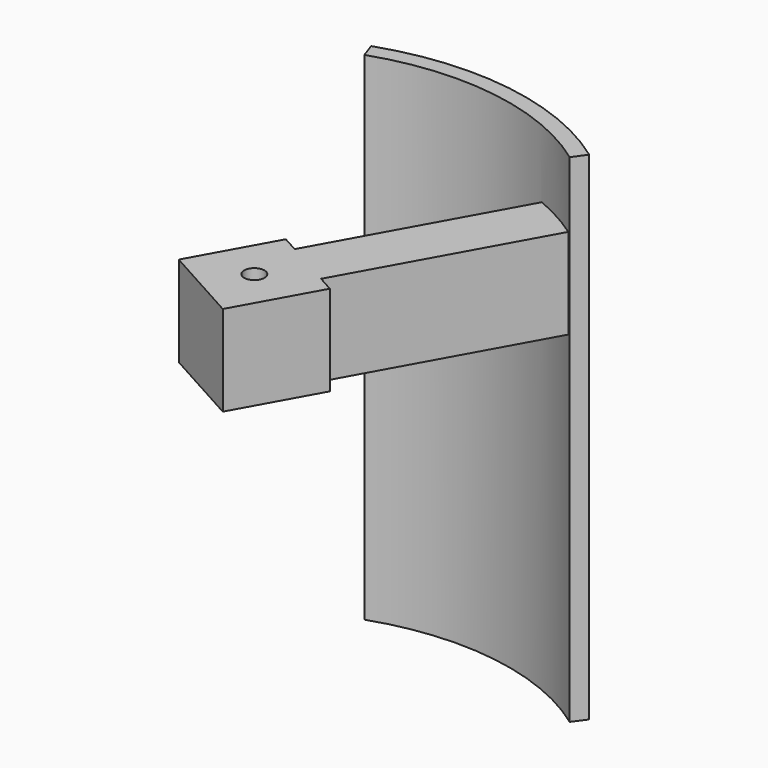
from build123d import *

# Parameters (mm, degrees)
PAD141_DEPTH              = 22
SKETCH221_W               = 4
SKETCH221_H               = 4
PAD138_DEPTH              = 13.5
SKETCH219_R               = 0.45
SKETCH219_W               = 0.8
SKETCH219_H               = 9.5
POCKET026_DEPTH           = 5
BODY033_PLACEMENT_ANGLE   = 90
FUSION003_PLACEMENT_ANGLE = 29


with BuildPart() as segment_wing003:
    # Sketch217 → Pad141 (new body)
    with BuildSketch(Plane.XY):
        with BuildLine():
            ThreePointArc((1.377124, 11.215772), (-3.957343, 10.584396), (-8.397537, 7.561176))
            Line((-8.397537, 7.561176), (-8.917738, 8.029567))
            ThreePointArc((1.462432, 11.910554), (-4.202489, 11.240066), (-8.917738, 8.029567))
            Line((1.377124, 11.215772), (1.462432, 11.910554))
        make_face()
    extrude(amount=PAD141_DEPTH)


with BuildPart() as segment_wing003_1:
    # Body034 placement: moved
    add(segment_wing003.part.moved(Location((0, 0, -9))))


with BuildPart() as segment_on003:
    # Sketch221 → Pad138 (new body)
    with BuildSketch(Plane.XY):
        with Locations((0, 6)):
            Rectangle(SKETCH221_W, SKETCH221_H)
    extrude(amount=PAD138_DEPTH)

    # Sketch219 (on Face1 of Pad138) → Pocket026 (cut)
    with BuildSketch(Plane(origin=(0, 8, 0), x_dir=(-1, 0, 0), z_dir=(0, 1, 0))):
        with Locations((0, 11.5)):
            Circle(SKETCH219_R)
        with Locations((-1.6, 4.75)):
            Rectangle(SKETCH219_W, SKETCH219_H)
        with Locations((1.6, 4.75)):
            Rectangle(SKETCH219_W, SKETCH219_H)
    extrude(amount=-POCKET026_DEPTH, mode=Mode.SUBTRACT)


with BuildPart() as segment_on003_1:
    # Body033 placement: moved
    add(segment_on003.part.moved(Location((0, 11.5, 2))).rotate(Axis((0, 11.5, 2), (1, 0, 0)), BODY033_PLACEMENT_ANGLE))

    # Fusion003: union Segment_Wing003
    add(segment_wing003_1.part)


with BuildPart() as segment_on003_2:
    # Fusion003 placement: moved
    add(segment_on003_1.part.rotate(Axis((0, 0, 0), (0, 0, -1)), FUSION003_PLACEMENT_ANGLE))


solid = segment_on003_2.part
